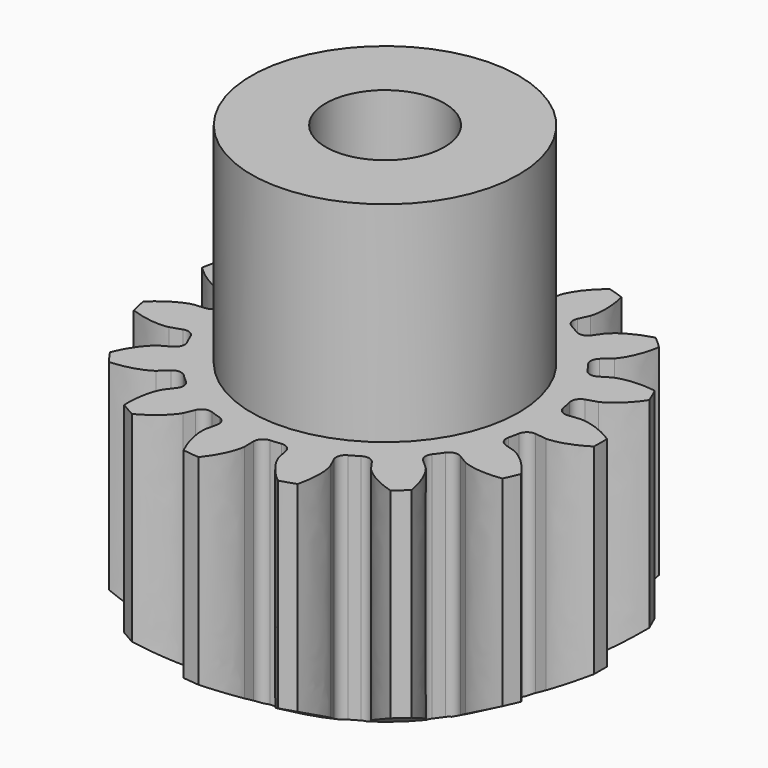
from build123d import *

# Parameters (mm, degrees)
PAD_DEPTH       = 10
SKETCH008_R     = 2.55
POCKET005_DEPTH = 10
SKETCH009_R     = 5.75
SKETCH009_R_2   = 2.55
PAD007_DEPTH    = 9


with BuildPart() as part:
    # InvoluteGear → Pad (new body)
    with BuildSketch(Plane.XY):
        with BuildLine():
            Line((7.158149, -0.860395), (7.64458, -0.918067))
            add(Edge.make_bspline(
                [(7.64458, -0.918067), (7.723106, -0.920551), (8.037619, -0.919454), (8.590539, -0.778166), (9.258058, -0.35636)],
                knots=[0, 0, 0, 0, 0, 1, 1, 1, 1, 1], degree=4))
            ThreePointArc((9.258058, -0.35636), (9.264914, 0), (9.258058, 0.35636))
            add(Edge.make_bspline(
                [(9.258058, 0.35636), (8.590539, 0.778166), (8.037619, 0.919454), (7.723106, 0.920551), (7.64458, 0.918067)],
                knots=[0, 0, 0, 0, 0, 1, 1, 1, 1, 1], degree=4))
            Line((7.64458, 0.918067), (7.158149, 0.860395))
            ThreePointArc((7.158149, 0.860395), (6.866348, 0.937564), (6.70706, 1.193944))
            ThreePointArc((6.70706, 1.193944), (6.663631, 1.416398), (6.612825, 1.637285))
            ThreePointArc((6.612825, 1.637285), (6.654062, 1.936288), (6.889249, 2.125471))
            Line((6.889249, 2.125471), (7.357083, 2.270635))
            add(Edge.make_bspline(
                [(7.357083, 2.270635), (7.42983, 2.300305), (7.716706, 2.429231), (8.164356, 2.783197), (8.602602, 3.44004)],
                knots=[0, 0, 0, 0, 0, 1, 1, 1, 1, 1], degree=4))
            ThreePointArc((8.602602, 3.44004), (8.46392, 3.76838), (8.312712, 4.091143))
            add(Edge.make_bspline(
                [(8.312712, 4.091143), (7.531339, 4.204977), (6.968755, 4.109157), (6.680986, 3.982236), (6.61026, 3.948027)],
                knots=[0, 0, 0, 0, 0, 1, 1, 1, 1, 1], degree=4))
            Line((6.61026, 3.948027), (6.18934, 3.697492))
            ThreePointArc((6.18934, 3.697492), (5.891379, 3.649303), (5.641584, 3.818729))
            ThreePointArc((5.641584, 3.818729), (5.511428, 4.004287), (5.375172, 4.185413))
            ThreePointArc((5.375172, 4.185413), (5.291229, 4.475338), (5.429135, 4.743824))
            Line((5.429135, 4.743824), (5.797479, 5.066724))
            add(Edge.make_bspline(
                [(5.797479, 5.066724), (5.851869, 5.123417), (6.061504, 5.35788), (6.326482, 5.86332), (6.459677, 6.641627)],
                knots=[0, 0, 0, 0, 0, 1, 1, 1, 1, 1], degree=4))
            ThreePointArc((6.459677, 6.641627), (6.199438, 6.885173), (5.930023, 7.118529))
            add(Edge.make_bspline(
                [(5.930023, 7.118529), (5.169903, 6.904709), (4.694929, 6.58835), (4.483663, 6.355355), (4.432966, 6.295337)],
                knots=[0, 0, 0, 0, 0, 1, 1, 1, 1, 1], degree=4))
            Line((4.432966, 6.295337), (4.150338, 5.895258))
            ThreePointArc((4.150338, 5.895258), (3.897737, 5.730044), (3.600626, 5.783221))
            ThreePointArc((3.600626, 5.783221), (3.40625, 5.899798), (3.208103, 6.009844))
            ThreePointArc((3.208103, 6.009844), (3.013495, 6.240561), (3.030274, 6.541927))
            Line((3.030274, 6.541927), (3.235439, 6.98673))
            add(Edge.make_bspline(
                [(3.235439, 6.98673), (3.262067, 7.060644), (3.358213, 7.360103), (3.394702, 7.929621), (3.199816, 8.694815)],
                knots=[0, 0, 0, 0, 0, 1, 1, 1, 1, 1], degree=4))
            ThreePointArc((3.199816, 8.694815), (2.863016, 8.811457), (2.521979, 8.915058))
            add(Edge.make_bspline(
                [(2.521979, 8.915058), (1.914543, 8.410554), (1.609308, 7.928357), (1.511075, 7.629576), (1.489172, 7.554126)],
                knots=[0, 0, 0, 0, 0, 1, 1, 1, 1, 1], degree=4))
            Line((1.489172, 7.554126), (1.393705, 7.073681))
            ThreePointArc((1.393705, 7.073681), (1.230142, 6.820008), (0.937088, 6.747742))
            ThreePointArc((0.937088, 6.747742), (0.7121, 6.77518), (0.486324, 6.795119))
            ThreePointArc((0.486324, 6.795119), (0.214699, 6.926735), (0.107452, 7.208872))
            Line((0.107452, 7.208872), (0.113961, 7.698667))
            add(Edge.make_bspline(
                [(0.113961, 7.698667), (0.108224, 7.777021), (0.074257, 8.089697), (-0.124053, 8.624819), (-0.613323, 9.244591)],
                knots=[0, 0, 0, 0, 0, 1, 1, 1, 1, 1], degree=4))
            ThreePointArc((-0.613323, 9.244591), (-0.968447, 9.21416), (-1.322138, 9.170092))
            add(Edge.make_bspline(
                [(-1.322138, 9.170092), (-1.671859, 8.462138), (-1.754577, 7.897479), (-1.722793, 7.584574), (-1.712114, 7.506739)],
                knots=[0, 0, 0, 0, 0, 1, 1, 1, 1, 1], degree=4))
            Line((-1.712114, 7.506739), (-1.603912, 7.029))
            ThreePointArc((-1.603912, 7.029), (-1.650157, 6.730731), (-1.888482, 6.545517))
            ThreePointArc((-1.888482, 6.545517), (-2.105178, 6.479073), (-2.319545, 6.405456))
            ThreePointArc((-2.319545, 6.405456), (-2.621219, 6.415214), (-2.83395, 6.629336))
            Line((-2.83395, 6.629336), (-3.027221, 7.079434))
            add(Edge.make_bspline(
                [(-3.027221, 7.079434), (-3.064332, 7.148681), (-3.222539, 7.420509), (-3.621358, 7.828708), (-4.320412, 8.195894)],
                knots=[0, 0, 0, 0, 0, 1, 1, 1, 1, 1], degree=4))
            ThreePointArc((-4.320412, 8.195894), (-4.632457, 8.023651), (-4.937646, 7.839534))
            add(Edge.make_bspline(
                [(-4.937646, 7.839534), (-4.969181, 7.050542), (-4.81508, 6.501055), (-4.658774, 6.22813), (-4.617359, 6.161368)],
                knots=[0, 0, 0, 0, 0, 1, 1, 1, 1, 1], degree=4))
            Line((-4.617359, 6.161368), (-4.324199, 5.768941))
            ThreePointArc((-4.324199, 5.768941), (-4.245128, 5.477649), (-4.387515, 5.211513))
            ThreePointArc((-4.387515, 5.211513), (-4.558452, 5.062674), (-4.724343, 4.908232))
            ThreePointArc((-4.724343, 4.908232), (-5.003906, 4.794443), (-5.285336, 4.903529))
            Line((-5.285336, 4.903529), (-5.644969, 5.236103))
            add(Edge.make_bspline(
                [(-5.644969, 5.236103), (-5.707037, 5.284269), (-5.962129, 5.468248), (-6.492498, 5.678941), (-7.280463, 5.730051)],
                knots=[0, 0, 0, 0, 0, 1, 1, 1, 1, 1], degree=4))
            ThreePointArc((-7.280463, 5.730051), (-7.495473, 5.44578), (-7.69939, 5.153449))
            add(Edge.make_bspline(
                [(-7.69939, 5.153449), (-7.407286, 4.419843), (-7.043012, 3.98054), (-6.78921, 3.794786), (-6.724222, 3.75064)],
                knots=[0, 0, 0, 0, 0, 1, 1, 1, 1, 1], degree=4))
            Line((-6.724222, 3.75064), (-6.296792, 3.51138))
            ThreePointArc((-6.296792, 3.51138), (-6.106078, 3.277433), (-6.127908, 2.97639))
            ThreePointArc((-6.127908, 2.97639), (-6.223528, 2.770893), (-6.31226, 2.562329))
            ThreePointArc((-6.31226, 2.562329), (-6.521371, 2.34467), (-6.82284, 2.329857))
            Line((-6.82284, 2.329857), (-7.286651, 2.487402))
            add(Edge.make_bspline(
                [(-7.286651, 2.487402), (-7.362944, 2.506159), (-7.670812, 2.570476), (-8.241025, 2.547234), (-8.981656, 2.273431)],
                knots=[0, 0, 0, 0, 0, 1, 1, 1, 1, 1], degree=4))
            ThreePointArc((-8.981656, 2.273431), (-9.062454, 1.926284), (-9.129839, 1.576286))
            add(Edge.make_bspline(
                [(-9.129839, 1.576286), (-8.564605, 1.024913), (-8.053143, 0.771753), (-7.745731, 0.705289), (-7.668405, 0.691393)],
                knots=[0, 0, 0, 0, 0, 1, 1, 1, 1, 1], degree=4))
            Line((-7.668405, 0.691393), (-7.180612, 0.646669))
            ThreePointArc((-7.180612, 0.646669), (-6.911232, 0.510518), (-6.80873, 0.226623))
            ThreePointArc((-6.80873, 0.226623), (-6.8125, 0), (-6.80873, -0.226623))
            ThreePointArc((-6.80873, -0.226623), (-6.911232, -0.510518), (-7.180612, -0.646669))
            Line((-7.180612, -0.646669), (-7.668405, -0.691393))
            add(Edge.make_bspline(
                [(-7.668405, -0.691393), (-7.745731, -0.705289), (-8.053143, -0.771753), (-8.564605, -1.024913), (-9.129839, -1.576286)],
                knots=[0, 0, 0, 0, 0, 1, 1, 1, 1, 1], degree=4))
            ThreePointArc((-9.129839, -1.576286), (-9.062454, -1.926284), (-8.981656, -2.273431))
            add(Edge.make_bspline(
                [(-8.981656, -2.273431), (-8.241025, -2.547234), (-7.670812, -2.570476), (-7.362944, -2.506159), (-7.286651, -2.487402)],
                knots=[0, 0, 0, 0, 0, 1, 1, 1, 1, 1], degree=4))
            Line((-7.286651, -2.487402), (-6.82284, -2.329857))
            ThreePointArc((-6.82284, -2.329857), (-6.521371, -2.34467), (-6.31226, -2.562329))
            ThreePointArc((-6.31226, -2.562329), (-6.223528, -2.770893), (-6.127908, -2.97639))
            ThreePointArc((-6.127908, -2.97639), (-6.106078, -3.277433), (-6.296792, -3.51138))
            Line((-6.296792, -3.51138), (-6.724222, -3.75064))
            add(Edge.make_bspline(
                [(-6.724222, -3.75064), (-6.78921, -3.794786), (-7.043012, -3.98054), (-7.407286, -4.419843), (-7.69939, -5.153449)],
                knots=[0, 0, 0, 0, 0, 1, 1, 1, 1, 1], degree=4))
            ThreePointArc((-7.69939, -5.153449), (-7.495473, -5.44578), (-7.280463, -5.730051))
            add(Edge.make_bspline(
                [(-7.280463, -5.730051), (-6.492498, -5.678941), (-5.962129, -5.468248), (-5.707037, -5.284269), (-5.644969, -5.236103)],
                knots=[0, 0, 0, 0, 0, 1, 1, 1, 1, 1], degree=4))
            Line((-5.644969, -5.236103), (-5.285336, -4.903529))
            ThreePointArc((-5.285336, -4.903529), (-5.003906, -4.794443), (-4.724343, -4.908232))
            ThreePointArc((-4.724343, -4.908232), (-4.558452, -5.062674), (-4.387515, -5.211513))
            ThreePointArc((-4.387515, -5.211513), (-4.245128, -5.477649), (-4.324199, -5.768941))
            Line((-4.324199, -5.768941), (-4.617359, -6.161368))
            add(Edge.make_bspline(
                [(-4.617359, -6.161368), (-4.658774, -6.22813), (-4.81508, -6.501055), (-4.969181, -7.050542), (-4.937646, -7.839534)],
                knots=[0, 0, 0, 0, 0, 1, 1, 1, 1, 1], degree=4))
            ThreePointArc((-4.937646, -7.839534), (-4.632457, -8.023651), (-4.320412, -8.195894))
            add(Edge.make_bspline(
                [(-4.320412, -8.195894), (-3.621358, -7.828708), (-3.222539, -7.420509), (-3.064332, -7.148681), (-3.027221, -7.079434)],
                knots=[0, 0, 0, 0, 0, 1, 1, 1, 1, 1], degree=4))
            Line((-3.027221, -7.079434), (-2.83395, -6.629336))
            ThreePointArc((-2.83395, -6.629336), (-2.621219, -6.415214), (-2.319545, -6.405456))
            ThreePointArc((-2.319545, -6.405456), (-2.105178, -6.479073), (-1.888482, -6.545517))
            ThreePointArc((-1.888482, -6.545517), (-1.650157, -6.730731), (-1.603912, -7.029))
            Line((-1.603912, -7.029), (-1.712114, -7.506739))
            add(Edge.make_bspline(
                [(-1.712114, -7.506739), (-1.722793, -7.584574), (-1.754577, -7.897479), (-1.671859, -8.462138), (-1.322138, -9.170092)],
                knots=[0, 0, 0, 0, 0, 1, 1, 1, 1, 1], degree=4))
            ThreePointArc((-1.322138, -9.170092), (-0.968447, -9.21416), (-0.613323, -9.244591))
            add(Edge.make_bspline(
                [(-0.613323, -9.244591), (-0.124053, -8.624819), (0.074257, -8.089697), (0.108224, -7.777021), (0.113961, -7.698667)],
                knots=[0, 0, 0, 0, 0, 1, 1, 1, 1, 1], degree=4))
            Line((0.113961, -7.698667), (0.107452, -7.208872))
            ThreePointArc((0.107452, -7.208872), (0.214699, -6.926735), (0.486324, -6.795119))
            ThreePointArc((0.486324, -6.795119), (0.7121, -6.77518), (0.937088, -6.747742))
            ThreePointArc((0.937088, -6.747742), (1.230142, -6.820008), (1.393705, -7.073681))
            Line((1.393705, -7.073681), (1.489172, -7.554126))
            add(Edge.make_bspline(
                [(1.489172, -7.554126), (1.511075, -7.629576), (1.609308, -7.928357), (1.914543, -8.410554), (2.521979, -8.915058)],
                knots=[0, 0, 0, 0, 0, 1, 1, 1, 1, 1], degree=4))
            ThreePointArc((2.521979, -8.915058), (2.863016, -8.811457), (3.199816, -8.694815))
            add(Edge.make_bspline(
                [(3.199816, -8.694815), (3.394702, -7.929621), (3.358213, -7.360103), (3.262067, -7.060644), (3.235439, -6.98673)],
                knots=[0, 0, 0, 0, 0, 1, 1, 1, 1, 1], degree=4))
            Line((3.235439, -6.98673), (3.030274, -6.541927))
            ThreePointArc((3.030274, -6.541927), (3.013495, -6.240561), (3.208103, -6.009844))
            ThreePointArc((3.208103, -6.009844), (3.40625, -5.899798), (3.600626, -5.783221))
            ThreePointArc((3.600626, -5.783221), (3.897737, -5.730044), (4.150338, -5.895258))
            Line((4.150338, -5.895258), (4.432966, -6.295337))
            add(Edge.make_bspline(
                [(4.432966, -6.295337), (4.483663, -6.355355), (4.694929, -6.58835), (5.169903, -6.904709), (5.930023, -7.118529)],
                knots=[0, 0, 0, 0, 0, 1, 1, 1, 1, 1], degree=4))
            ThreePointArc((5.930023, -7.118529), (6.199438, -6.885173), (6.459677, -6.641627))
            add(Edge.make_bspline(
                [(6.459677, -6.641627), (6.326482, -5.86332), (6.061504, -5.35788), (5.851869, -5.123417), (5.797479, -5.066724)],
                knots=[0, 0, 0, 0, 0, 1, 1, 1, 1, 1], degree=4))
            Line((5.797479, -5.066724), (5.429135, -4.743824))
            ThreePointArc((5.429135, -4.743824), (5.291229, -4.475338), (5.375172, -4.185413))
            ThreePointArc((5.375172, -4.185413), (5.511428, -4.004287), (5.641584, -3.818729))
            ThreePointArc((5.641584, -3.818729), (5.891379, -3.649303), (6.18934, -3.697492))
            Line((6.18934, -3.697492), (6.61026, -3.948027))
            add(Edge.make_bspline(
                [(6.61026, -3.948027), (6.680986, -3.982236), (6.968755, -4.109157), (7.531339, -4.204977), (8.312712, -4.091143)],
                knots=[0, 0, 0, 0, 0, 1, 1, 1, 1, 1], degree=4))
            ThreePointArc((8.312712, -4.091143), (8.46392, -3.76838), (8.602602, -3.44004))
            add(Edge.make_bspline(
                [(8.602602, -3.44004), (8.164356, -2.783197), (7.716706, -2.429231), (7.42983, -2.300305), (7.357083, -2.270635)],
                knots=[0, 0, 0, 0, 0, 1, 1, 1, 1, 1], degree=4))
            Line((7.357083, -2.270635), (6.889249, -2.125471))
            ThreePointArc((6.889249, -2.125471), (6.654062, -1.936288), (6.612825, -1.637285))
            ThreePointArc((6.612825, -1.637285), (6.663631, -1.416398), (6.70706, -1.193944))
            ThreePointArc((6.70706, -1.193944), (6.866348, -0.937564), (7.158149, -0.860395))
        make_face()
    extrude(amount=PAD_DEPTH)

    # Sketch008 → Pocket005 (cut)
    with BuildSketch(Plane.XY):
        Circle(SKETCH008_R)
    extrude(amount=POCKET005_DEPTH, mode=Mode.SUBTRACT)

    # Sketch009 (on Face5 of Pocket005) → Pad007 (join)
    with BuildSketch(Plane.XY.offset(10)):
        Circle(SKETCH009_R)
        Circle(SKETCH009_R_2, mode=Mode.SUBTRACT)
    extrude(amount=PAD007_DEPTH)

    # Sketch025 → Groove002 (revolve, cut)
    with BuildSketch(Plane.XZ):
        Polygon((9.36, 0), (9.36, 1.437602), (6.87, 0), (8.25, 0), align=None)
    revolve(axis=Axis((0, 0, 0), (0, 0, 1)), mode=Mode.SUBTRACT)


solid = part.part
